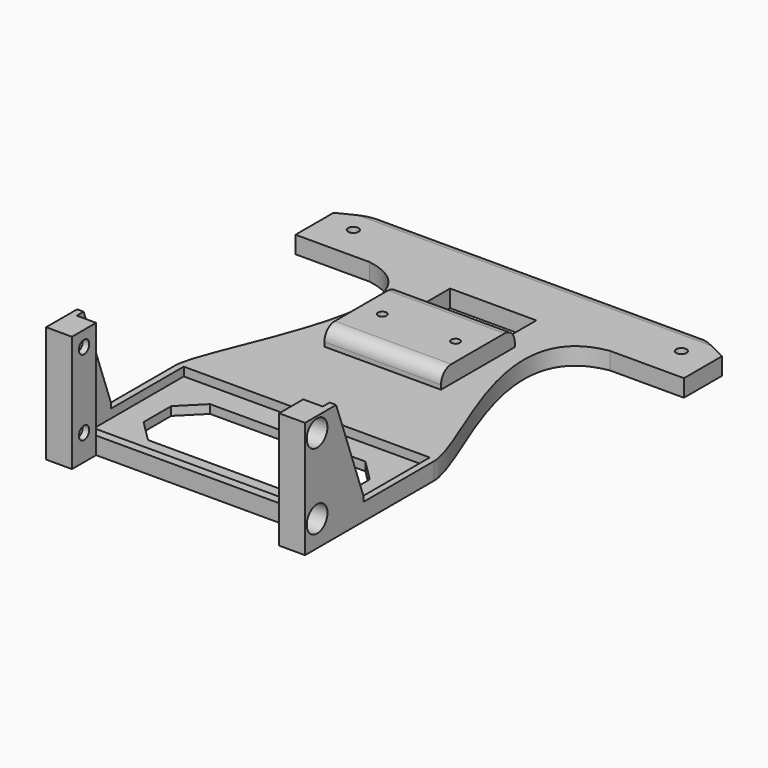
from build123d import *

# Parameters (mm, degrees)
F0_W      = 46
F0_H      = 18
F0_R      = 1.2
F0_W_2    = 23
F0_H_2    = 17
F0_W_3    = 20
F0_H_3    = 10
F1_DEPTH  = 4
F2_SIZE2  = 5
F2_SIZE   = 10
F3_SIZE2  = 10
F3_SIZE   = 5
F4_SIZE   = 5
F5_W      = 1.5
F5_H      = 10
F6_DEPTH  = 27
F7_R      = 1.5
F8_DEPTH  = 60
F9_R      = 3
F10_DEPTH = 4.5
F11_R     = 3
F12_DEPTH = 4.5
F13_W     = 57
F13_H     = 29
F14_DEPTH = 2
F15_SIZE2 = 22
F15_SIZE  = 8
F16_SIZE2 = 8
F16_SIZE  = 22
F17_W     = 27
F17_H     = 21.3817437291
F17_W_2   = 23
F17_H_2   = 17
F18_DEPTH = 2
F19_W     = 27
F19_H     = 21.3817437291
F20_DEPTH = 2
F21_R     = 1
F22_DEPTH = 2
F23_R     = 3


with BuildPart() as f1:
    # F0 (on Top) → F1 (new body)
    with BuildSketch(Plane.XY):
        with BuildLine():
            Line((0, 84), (-45, 84))
            Line((-45, 84), (-45, 68))
            Line((-45, 68), (-30, 68))
            Line((-30, 68), (-27.8254859149, 68))
            add(Edge.make_bspline(
                [(-27.8254859149, 68), (-4.1811005212, 64), (-30, 23.7322062403), (-30, 14.3733293898)],
                knots=[0, 0, 0, 0, 53.6707398145, 53.6707398145, 53.6707398145, 53.6707398145], degree=3))
            Line((-30, 14.3733293898), (-30, -16))
            Line((-30, -16), (0, -16))
            Line((0, -16), (30, -16))
            Line((30, -16), (30, 14.3733293898))
            add(Edge.make_bspline(
                [(27.8254859149, 68), (4.1811005212, 64), (30, 23.7322062403), (30, 14.3733293898)],
                knots=[0, 0, 0, 0, 53.6707398145, 53.6707398145, 53.6707398145, 53.6707398145], degree=3))
            Line((27.8254859149, 68), (30, 68))
            Line((30, 68), (45, 68))
            Line((45, 68), (45, 84))
            Line((45, 84), (0, 84))
        make_face()
        with Locations((0, 0.500412114)):
            Rectangle(F0_W, F0_H, mode=Mode.SUBTRACT)
        with Locations((-38, 76)):
            Circle(F0_R, mode=Mode.SUBTRACT)
        with Locations((0, 47.5)):
            Rectangle(F0_W_2, F0_H_2, mode=Mode.SUBTRACT)
        with Locations((0, 64)):
            Rectangle(F0_W_3, F0_H_3, mode=Mode.SUBTRACT)
        with Locations((38, 76)):
            Circle(F0_R, mode=Mode.SUBTRACT)
    extrude(amount=F1_DEPTH)

    # F2
    f2_edges = [f1.edges().sort_by_distance(p)[0] for p in [
        (45, 84, 2),
    ]]
    f2_side = f1.faces().sort_by_distance((0, 84, 2))[0]
    chamfer(f2_edges, length=F2_SIZE, length2=F2_SIZE2, reference=f2_side)

    # F3
    f3_edges = [f1.edges().sort_by_distance(p)[0] for p in [
        (-45, 84, 2),
    ]]
    f3_side = f1.faces().sort_by_distance((-45, 76, 2))[0]
    chamfer(f3_edges, length=F3_SIZE, length2=F3_SIZE2, reference=f3_side)

    # F4
    f4_edges = [f1.edges().sort_by_distance(p)[0] for p in [
        (-23, 9.500412, 2),
        (23, 9.500412, 2),
        (23, -8.499588, 2),
        (-23, -8.499588, 2),
    ]]
    chamfer(f4_edges, length=F4_SIZE)

    # F5 (on Top) → F6 (join)
    with BuildSketch(Plane.XY):
        Polygon((-24, -16), (-28.5, -16), (-28.5, -6), (-30, -6), (-30, -16), (-30, -23), (-24, -23), align=None)
        Polygon((30, -23), (30, -16), (28.5, -16), (24, -16), (24, -23), align=None)
        with Locations((29.25, -11)):
            Rectangle(F5_W, F5_H)
    extrude(amount=F6_DEPTH)

    # F7 (on face) → F8 (cut)
    with BuildSketch(Plane.YZ.offset(30)):
        with Locations((-19.5, 23.5)):
            Circle(F7_R)
        with Locations((-19.5, 6)):
            Circle(F7_R)
    extrude(amount=-F8_DEPTH, mode=Mode.SUBTRACT)

    # F9 (on face) → F10 (cut)
    with BuildSketch(Plane.YZ.offset(30)):
        with Locations((-19.5, 23.5)):
            Circle(F9_R)
        with Locations((-19.5, 6)):
            Circle(F9_R)
    extrude(amount=-F10_DEPTH, mode=Mode.SUBTRACT)

    # F11 (on face) → F12 (cut)
    with BuildSketch(Plane(origin=(-30, 0, 0), x_dir=(0, -1, 0), z_dir=(-1, 0, 0))):
        with Locations((19.5, 23.5)):
            Circle(F11_R)
        with Locations((19.5, 6)):
            Circle(F11_R)
    extrude(amount=-F12_DEPTH, mode=Mode.SUBTRACT)

    # F13 (on face) → F14 (cut)
    with BuildSketch(Plane.XY.offset(4)):
        with Locations((0, 0.5)):
            Rectangle(F13_W, F13_H)
    extrude(amount=-F14_DEPTH, mode=Mode.SUBTRACT)

    # F15
    f15_edges = [f1.edges().sort_by_distance(p)[0] for p in [
        (29.25, -6, 27),
    ]]
    f15_side = f1.faces().sort_by_distance((27.592105, -17.263158, 27))[0]
    chamfer(f15_edges, length=F15_SIZE, length2=F15_SIZE2, reference=f15_side)

    # F16
    f16_edges = [f1.edges().sort_by_distance(p)[0] for p in [
        (-29.25, -6, 27),
    ]]
    f16_side = f1.faces().sort_by_distance((-29.25, -6, 15.5))[0]
    chamfer(f16_edges, length=F16_SIZE, length2=F16_SIZE2, reference=f16_side)

    # F17 (on face) → F18 (join)
    with BuildSketch(Plane.XY.offset(4)):
        with Locations((0, 47.6908718646)):
            Rectangle(F17_W, F17_H)
        with Locations((0, 47.5)):
            Rectangle(F17_W_2, F17_H_2, mode=Mode.SUBTRACT)
    extrude(amount=F18_DEPTH)

    # F19 (on face) → F20 (join)
    with BuildSketch(Plane.XY.offset(6)):
        with Locations((0, 47.6908718646)):
            Rectangle(F19_W, F19_H)
    extrude(amount=F20_DEPTH)

    # F21 (on face) → F22 (cut)
    with BuildSketch(Plane.XY.offset(8)):
        with Locations((-8.5, 47.5)):
            Circle(F21_R)
        with Locations((8.5, 47.5)):
            Circle(F21_R)
    extrude(amount=-F22_DEPTH, mode=Mode.SUBTRACT)

    # F23
    f23_edges = [f1.edges().sort_by_distance(p)[0] for p in [
        (0, 58.381744, 8),
        (0, 84, 4),
        (0, 37, 8),
    ]]
    fillet(f23_edges, radius=F23_R)


solid = f1.part
